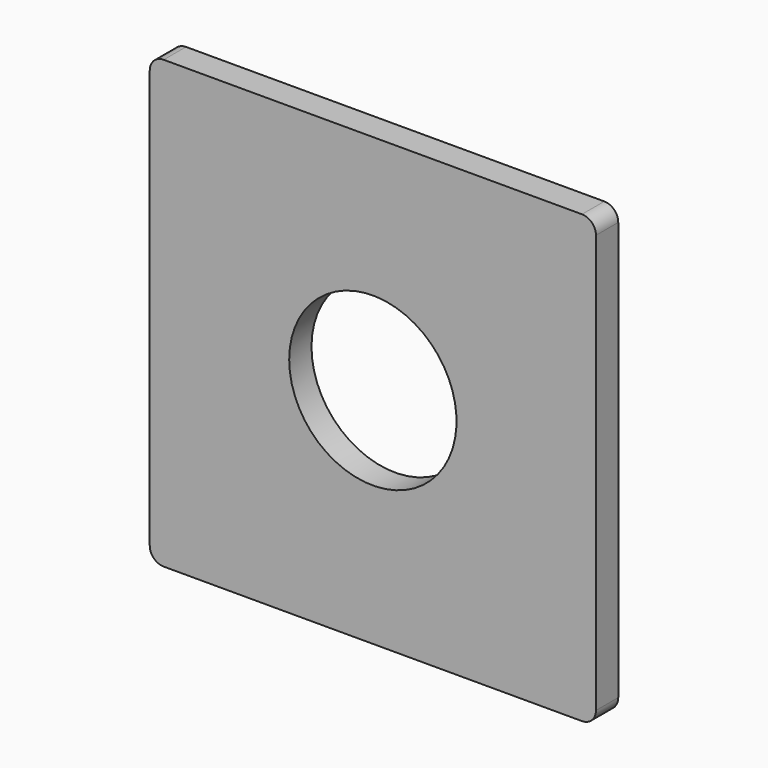
from build123d import *

# Parameters (mm, degrees)
F0_W     = 50.8
F0_H     = 50.8
F1_DEPTH = 3.175
F2_R     = 1.5875
F3_R     = 9.525
F4_DEPTH = 3.176


with BuildPart() as f1:
    # F0 (on Front) → F1 (new body)
    with BuildSketch(Plane.XZ):
        Rectangle(F0_W, F0_H)
    extrude(amount=F1_DEPTH)

    # F2
    f2_edges = [f1.edges().sort_by_distance(p)[0] for p in [
        (25.4, -1.5875, 25.4),
        (-25.4, -1.5875, 25.4),
        (-25.4, -1.5875, -25.4),
        (25.4, -1.5875, -25.4),
    ]]
    fillet(f2_edges, radius=F2_R)

    # F3 (on face) → F4 (cut, through all)
    with BuildSketch(Plane(origin=(0, 0, 0), x_dir=(-1, 0, 0), z_dir=(0, 1, 0))):
        Circle(F3_R)
    extrude(amount=-F4_DEPTH, mode=Mode.SUBTRACT)


solid = f1.part
